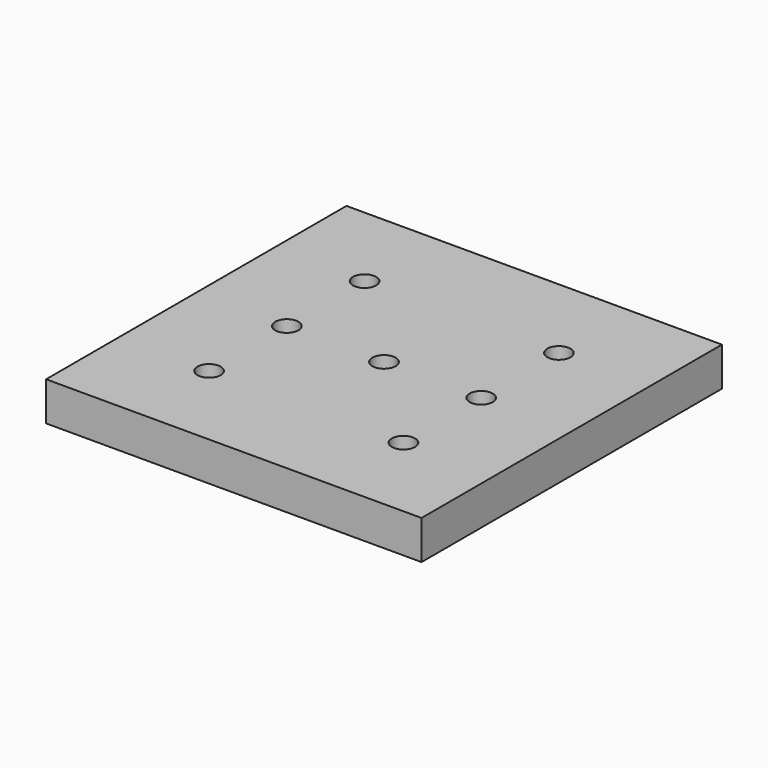
from build123d import *

# Parameters (mm, degrees)
SKETCH_W  = 85
SKETCH_H  = 85
SKETCH_R  = 2.625
PAD_DEPTH = 8.8


with BuildPart() as part:
    # Sketch → Pad (new body)
    with BuildSketch(Plane.XY):
        Rectangle(SKETCH_W, SKETCH_H)
        with Locations((-22, 22)):
            Circle(SKETCH_R, mode=Mode.SUBTRACT)
        with Locations((-22, 0)):
            Circle(SKETCH_R, mode=Mode.SUBTRACT)
        with Locations((-22, -22)):
            Circle(SKETCH_R, mode=Mode.SUBTRACT)
        Circle(SKETCH_R, mode=Mode.SUBTRACT)
        with Locations((22, 22)):
            Circle(SKETCH_R, mode=Mode.SUBTRACT)
        with Locations((22, 0)):
            Circle(SKETCH_R, mode=Mode.SUBTRACT)
        with Locations((22, -22)):
            Circle(SKETCH_R, mode=Mode.SUBTRACT)
    extrude(amount=PAD_DEPTH)


solid = part.part
